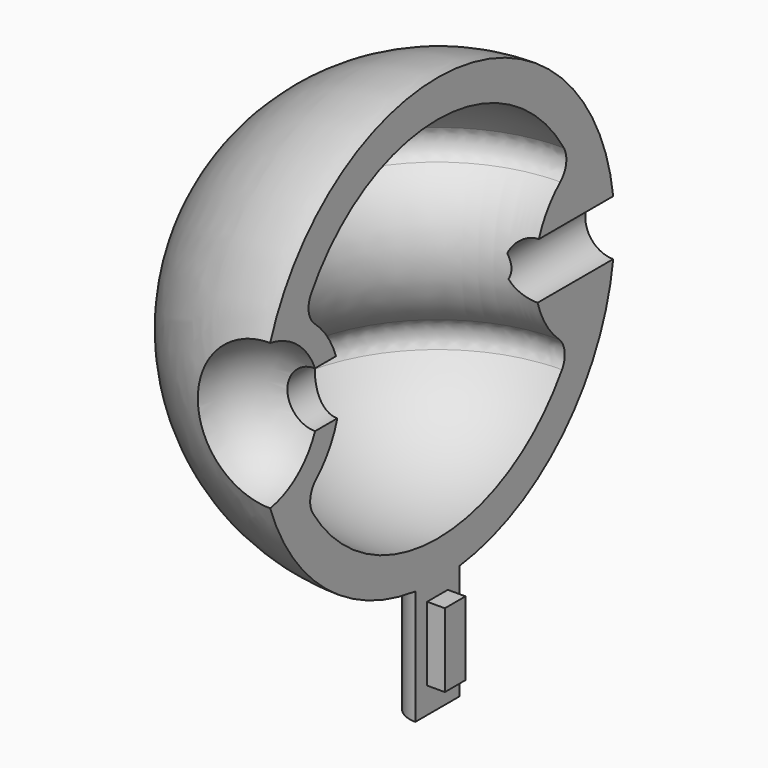
from build123d import *

# Parameters (mm, degrees)
F8_W      = 23.3316195624
F8_H      = 6.25
F10_R     = 5
F11_R     = 6.25
F12_DEPTH = 33.3333333333
F15_DEPTH = 5.5555555556
F17_DEPTH = 20
F19_DEPTH = 4


with BuildPart() as f2:
    # F1 (on Top) → F2 (revolve)
    with BuildSketch(Plane.XY):
        with BuildLine():
            Line((0, 0), (0, 50))
            ThreePointArc((0, 50), (-35.2493093402, 35.2493093402), (-50, 0))
            Line((-50, 0), (0, 0))
        make_face()
    revolve(axis=Axis((-25, 0, 0), (1, 0, 0)))

    # F4 (on offset) → F5 (revolve, cut)
    with BuildSketch(Plane.XZ.offset(50)):
        with BuildLine():
            Line((0, -16.6666666667), (0, 16.6666666667))
            ThreePointArc((0, 16.6666666667), (-16.6666666667, 0), (0, -16.6666666667))
        make_face()
    revolve(axis=Axis((0, -50, -1.9737724215), (0, 0, -1)), mode=Mode.SUBTRACT)

    # F6 (on face) → F7 (revolve, cut)
    with BuildSketch(Plane.YZ):
        with BuildLine():
            ThreePointArc((-37.8466364555, 17.4282305503), (-27.4757859957, -0.3256138007), (-37.422983522, -18.3202460524))
            ThreePointArc((-37.422983522, -18.3202460524), (-22.0541098845, -35.3514829719), (0, -41.6666666667))
            Line((0, -41.6666666667), (0, 41.6666666667))
            ThreePointArc((0, 41.6666666667), (-22.4714801268, 35.0876572604), (-37.8466364555, 17.4282305503))
        make_face()
    revolve(axis=Axis((0, 0, 1.4037434012), (0, 0, -1)), mode=Mode.SUBTRACT)

    # F8 (on face) → F9 (revolve, cut)
    with BuildSketch(Plane.YZ):
        with Locations((38.6982297662, 3.125)):
            Rectangle(F8_W, F8_H)
    revolve(axis=Axis((0, 36.5484141222, 0), (0, -1, 0)), mode=Mode.SUBTRACT)

    # F10
    f10_edges = [f2.edges().sort_by_distance(p)[0] for p in [
        (-37.846636, 0, 17.428231),
        (-37.422984, 0, -18.320246),
    ]]
    fillet(f10_edges, radius=F10_R)

    # F11 (on offset) → F12 (cut)
    with BuildSketch(Plane.XZ.offset(50)):
        Circle(F11_R)
    extrude(amount=-F12_DEPTH, mode=Mode.SUBTRACT)

    # F14 (on offset) → F15 (join, symmetric)
    with BuildSketch(Plane.XY.offset(-50)):
        with BuildLine():
            Line((0, -6.25), (0, 6.25))
            ThreePointArc((0, 6.25), (-6.25, 0), (0, -6.25))
        make_face()
    extrude(amount=F15_DEPTH, both=True)

    # F16 (on face) → F17 (join)
    with BuildSketch(Plane(origin=(0, 0, -55.5555555556), x_dir=(1, 0, 0), z_dir=(0, 0, -1))):
        with BuildLine():
            Line((0, -6.25), (0, 6.25))
            ThreePointArc((0, 6.25), (-6.25, 0), (0, -6.25))
        make_face()
    extrude(amount=F17_DEPTH)

    # F18 (on face) → F19 (join)
    with BuildSketch(Plane.YZ):
        Polygon((-0.5853667572, -53.0124804626), (-2.9166666667, -53.0124804626), (-2.9166666667, -69.6791471293), (-0.5853667572, -69.6791471293), (2.9166666667, -69.6791471293), (2.9166666667, -53.0124804626), align=None)
    extrude(amount=F19_DEPTH)


solid = f2.part
